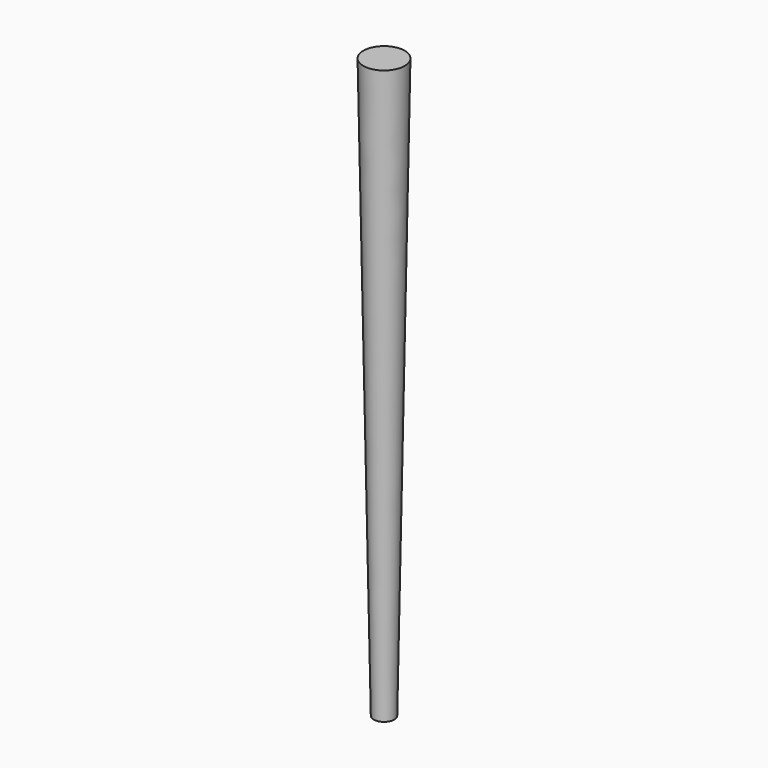
from build123d import *

# Parameters (mm, degrees)
F0_R = 12.7
F2_R = 25.4


with BuildPart() as f3:
    # F0 (on Top) → F3 section 0
    with BuildSketch(Plane.XY):
        with Locations((-100.734927, -42.464539)):
            Circle(F0_R)
    # F2 (on offset) → F3 section 1
    with BuildSketch(Plane.XY.offset(711.2)):
        with Locations((-100.734927, -42.464539)):
            Circle(F2_R)
    loft()


solid = f3.part
